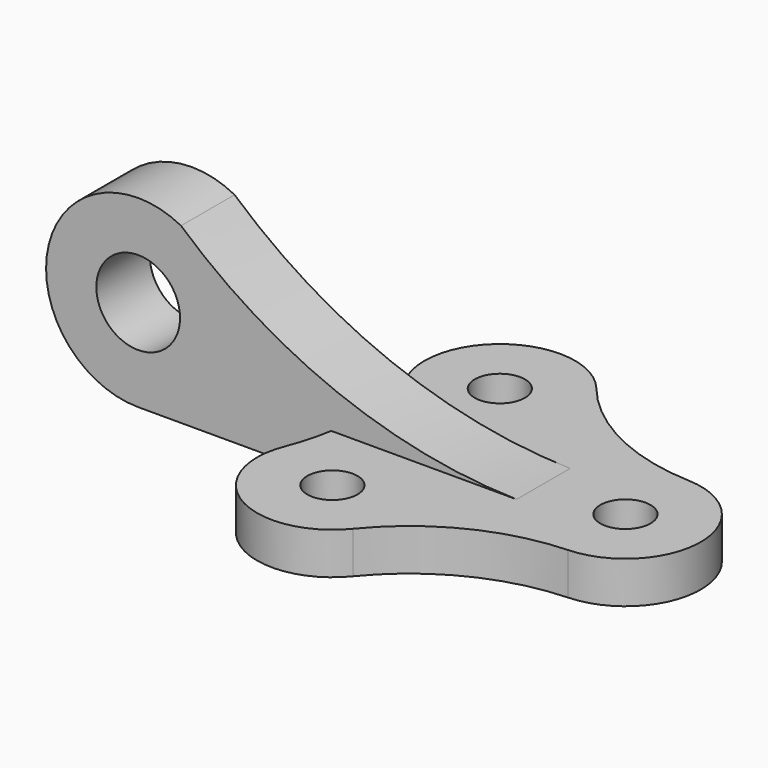
from build123d import *

# Parameters (mm, degrees)
F0_R     = 6
F1_DEPTH = 10
F2_R     = 10
F3_DEPTH = 8


with BuildPart() as f1:
    # F0 (on Top) → F1 (new body)
    with BuildSketch(Plane.XY):
        with BuildLine():
            ThreePointArc((-36.043982, -36.367918), (-19.637945, -23.224109), (0.720724, -17.985565))
            ThreePointArc((0.720724, -17.985565), (18, 0), (0.720724, 17.985565))
            ThreePointArc((0.720724, 17.985565), (-19.637945, 23.224109), (-36.043982, 36.367918))
            ThreePointArc((-36.043982, 36.367918), (-59.09983, 40.530392), (-66.739377, 18.382353))
            ThreePointArc((-66.739377, 18.382353), (-63.237647, 0), (-66.739377, -18.382353))
            ThreePointArc((-66.739377, -18.382353), (-59.09983, -40.530392), (-36.043982, -36.367918))
        make_face()
        with Locations((-50, -25)):
            Circle(F0_R, mode=Mode.SUBTRACT)
        Circle(F0_R, mode=Mode.SUBTRACT)
        with Locations((-50, 25)):
            Circle(F0_R, mode=Mode.SUBTRACT)
    extrude(amount=F1_DEPTH)

    # F2 (on Front) → F3 (join, symmetric)
    with BuildSketch(Plane.XZ):
        with BuildLine():
            ThreePointArc((-19.60954, 10), (-62.486208, 18.61716), (-99.770184, 41.476932))
            ThreePointArc((-99.770184, 41.476932), (-131.359922, 27.268183), (-110, 0))
            Line((-110, 0), (-13.986876, 0))
            Line((-13.986876, 0), (-13.986876, 10))
            ThreePointArc((-13.986876, 10), (-16.798208, 9.968382), (-19.60954, 10))
        make_face()
        with Locations((-110, 22)):
            Circle(F2_R, mode=Mode.SUBTRACT)
        with BuildLine():
            Line((-13.986876, 10), (-19.60954, 10))
            ThreePointArc((-19.60954, 10), (-16.798208, 9.968382), (-13.986876, 10))
        make_face()
    extrude(amount=F3_DEPTH, both=True)


solid = f1.part
